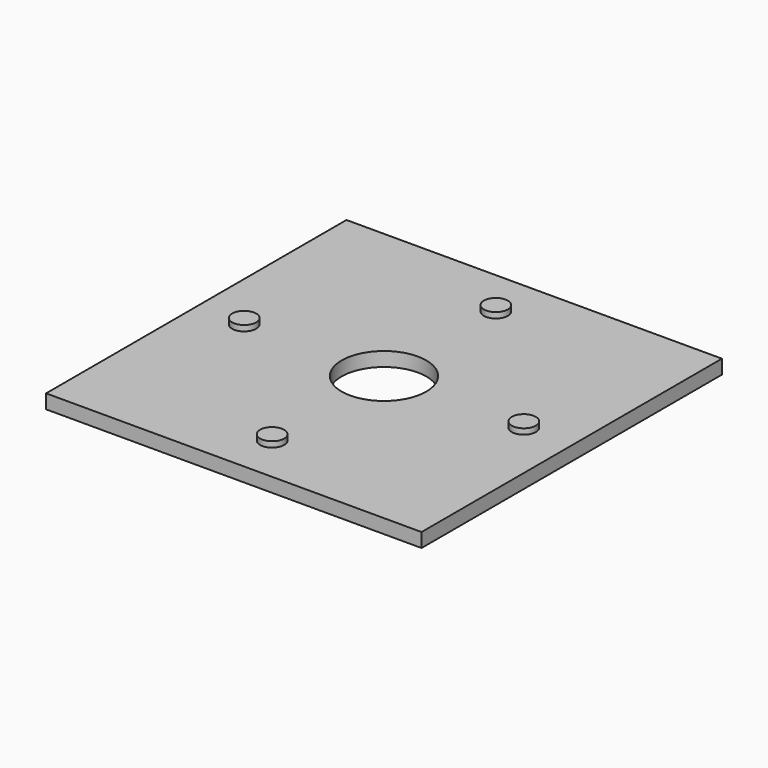
from build123d import *

# Parameters (mm, degrees)
F0_W     = 33.835038
F0_H     = 33.835038
F0_R     = 3.81
F1_DEPTH = 1.27
F2_R     = 1.081703
F2_R_2   = 1.08171
F3_DEPTH = 0.508


with BuildPart() as f1:
    # F0 (on Top) → F1 (new body)
    with BuildSketch(Plane.XY):
        with Locations((16.917519, 16.917519)):
            Rectangle(F0_W, F0_H)
        with Locations((16.917519, 16.917519)):
            Circle(F0_R, mode=Mode.SUBTRACT)
    extrude(amount=F1_DEPTH)

    # F2 (on face) → F3 (join)
    with BuildSketch(Plane.XY.offset(1.27)):
        with Locations((29.517038, 16.917519)):
            Circle(F2_R)
        with Locations((4.318, 16.917519)):
            Circle(F2_R)
        with Locations((16.917519, 29.517038)):
            Circle(F2_R_2)
        with Locations((16.917519, 4.318)):
            Circle(F2_R_2)
    extrude(amount=F3_DEPTH)


solid = f1.part
